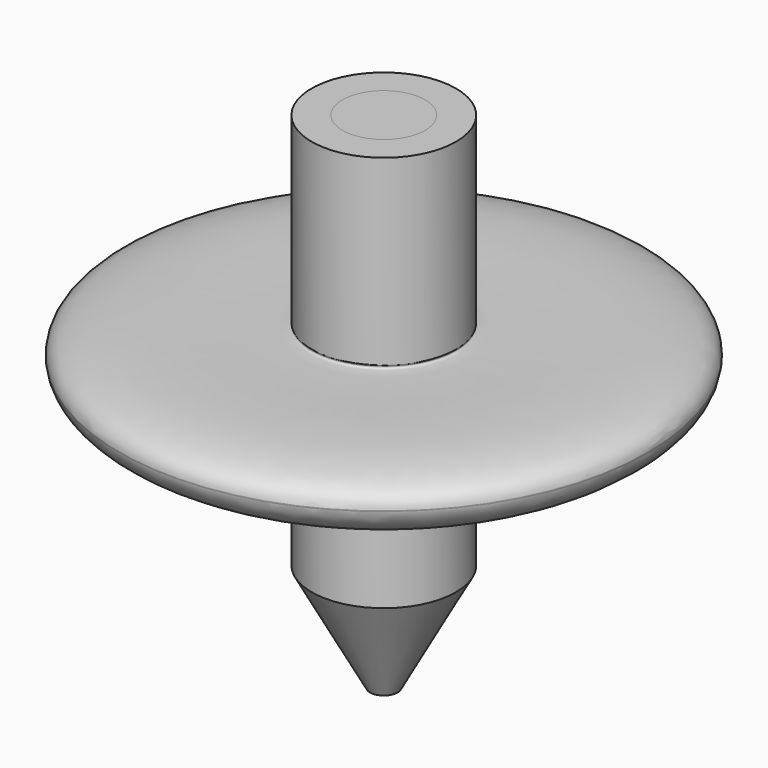
from build123d import *

# Parameters (mm, degrees)
F2_R     = 4.7625
F3_DEPTH = 9.525
F4_DEPTH = 9.525
F5_R     = 1.5875
F6_DEPTH = 22.225


with BuildPart() as f1:
    # F0 (on Front) → F1 (revolve)
    with BuildSketch(Plane.XZ):
        with BuildLine():
            Line((0, 60.96), (0, 0))
            Line((0, 0), (8.315011056, 15.2790336204))
            Line((8.315011056, 15.2790336204), (8.315011056, 28.840571844))
            add(Edge.make_bspline(
                [(8.315011056, 28.840571844), (18.6914253173, 30.2652374729), (28.6020671273, 32.1181749891), (30.3993781488, 36.022545001), (30.4129573538, 36.577154624)],
                knots=[0, 0, 0, 0, 0.4005706761, 0.4704761927, 0.4704761927, 0.4704761927, 0.4704761927], degree=3))
            Line((30.4129573538, 36.577154624), (30.4129573538, 36.6655998046))
            add(Edge.make_bspline(
                [(30.4129573538, 36.6655998046), (30.3956767058, 37.3640475603), (28.0882131696, 40.8609150587), (7.5651257895, 38.6523696291), (8.2304579039, 39.7658310786), (8.315011056, 39.9039330631)],
                knots=[0.4742017901, 0.4742017901, 0.4742017901, 0.4742017901, 0.5627034759, 0.9492294083, 1, 1, 1, 1], degree=3))
            Line((8.315011056, 39.9039330631), (8.315011056, 60.96))
            Line((8.315011056, 60.96), (0, 60.96))
        make_face()
    revolve(axis=Axis((0, 0, 30.48), (0, 0, -1)))

    # F2 (on face) → F3 (cut)
    with BuildSketch(Plane.XY.offset(60.96)):
        Circle(F2_R)
    extrude(amount=-F3_DEPTH, mode=Mode.SUBTRACT)

    # F5 (on Top) → F6 (cut)
    with BuildSketch(Plane.XY):
        Circle(F5_R)
    extrude(amount=F6_DEPTH, mode=Mode.SUBTRACT)


with BuildPart() as f4:
    # F2 (on face) → F4 (new body)
    with BuildSketch(Plane.XY.offset(60.96)):
        Circle(F2_R)
    extrude(amount=-F4_DEPTH)


solid = Compound([f1.part, f4.part])
